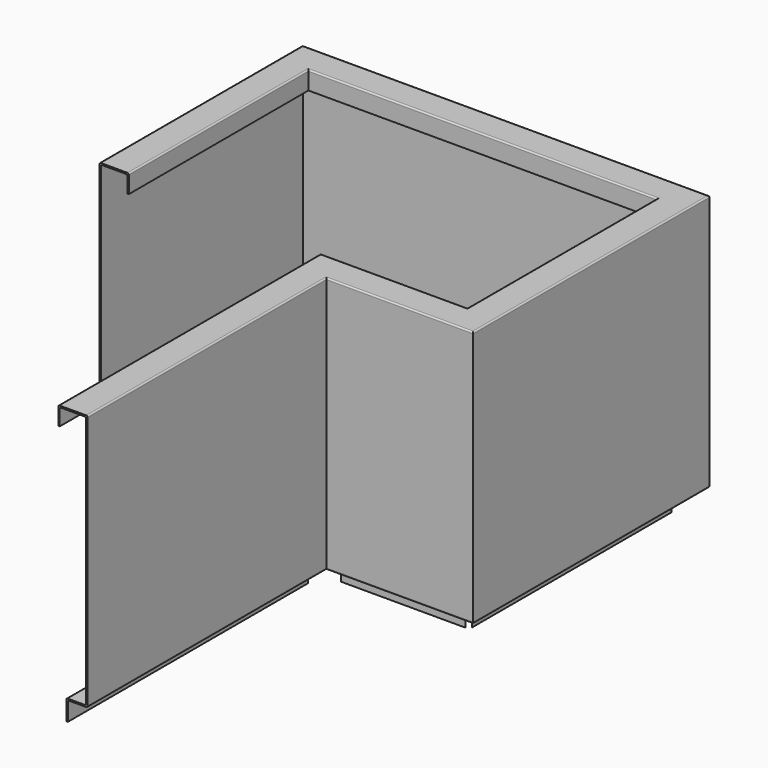
from build123d import *

# Parameters (mm, degrees)
F3_W     = 27
F3_H     = 27
F4_DEPTH = 40


with BuildPart() as f2:
    # F2: sweep along a path in F1
    with BuildLine(Plane.XY) as f2_path:
        Line((0, 0), (0, 346))
        Line((0, 346), (555, 346))
        Line((555, 346), (555, -57))
        Line((555, -57), (355, -57))
        Line((355, -57), (355, -464))
    # F0 (on Front) → F2 (sweep)
    with BuildSketch(Plane.XZ):
        with BuildLine():
            Line((38, 0), (2, 0))
            ThreePointArc((2, 0), (0.5857864376, -0.5857864376), (0, -2))
            Line((0, -2), (0, -348))
            ThreePointArc((0, -348), (0.5857864376, -349.4142135624), (2, -350))
            Line((2, -350), (25, -350))
            ThreePointArc((25, -350), (26.4142135624, -350.5857864376), (27, -352))
            Line((27, -352), (27, -376))
            Line((27, -376), (29, -376))
            Line((29, -376), (29, -350))
            ThreePointArc((29, -350), (28.4142135624, -348.5857864376), (27, -348))
            Line((27, -348), (4, -348))
            ThreePointArc((4, -348), (2.5857864376, -347.4142135624), (2, -346))
            Line((2, -346), (2, -4))
            ThreePointArc((2, -4), (2.5857864376, -2.5857864376), (4, -2))
            Line((4, -2), (36, -2))
            ThreePointArc((36, -2), (37.4142135624, -2.5857864376), (38, -4))
            Line((38, -4), (38, -25))
            Line((38, -25), (40, -25))
            Line((40, -25), (40, -2))
            ThreePointArc((40, -2), (39.4142135624, -0.5857864376), (38, 0))
        make_face()
    sweep(path=f2_path.line, transition=Transition.RIGHT)

    # F3 (on face) → F4 (cut)
    with BuildSketch(Plane.XY.offset(-348)):
        Polygon((2, 344), (29, 311.822653), (29, 317), (34.177347, 317), align=None)
        Polygon((526, 311.822653), (553, 344), (520.822653, 317), (526, 317), align=None)
        Polygon((520.822653, -28), (553, -55), (526, -22.822653), (526, -28), align=None)
        with Locations((339.5, -41.5)):
            Rectangle(F3_W, F3_H)
    extrude(amount=-F4_DEPTH, mode=Mode.SUBTRACT)


solid = f2.part
